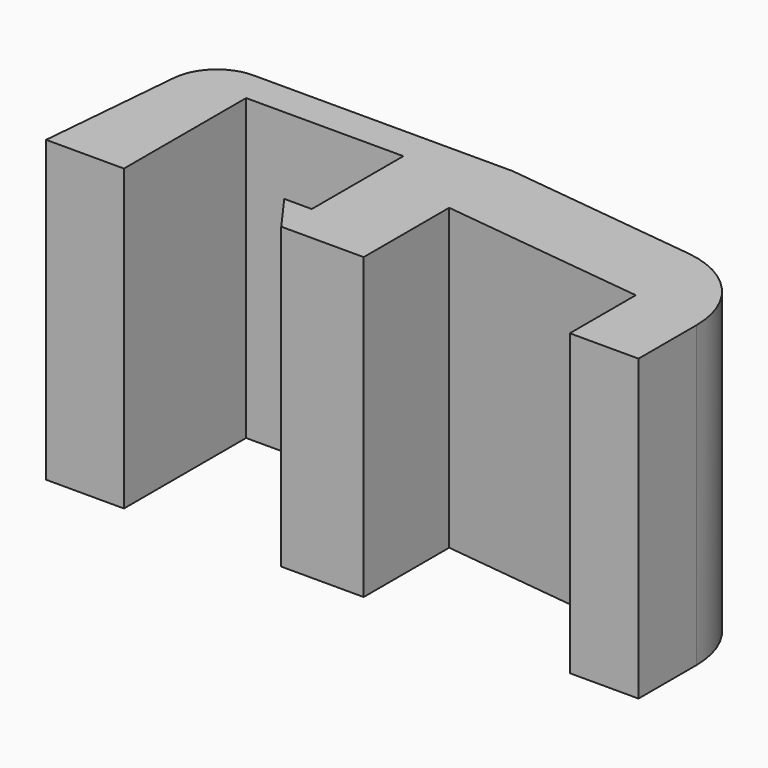
from build123d import *

# Parameters (mm, degrees)
F1_DEPTH = 19.6
F2_R     = 6
F3_R     = 3


with BuildPart() as f1:
    # F0 (on Top) → F1 (new body)
    with BuildSketch(Plane.XY):
        Polygon((-28.130636, 0), (-23.030636, 0), (-23.030636, 10), (-12.730636, 10), (-12.730636, 2.5), (-14.530636, 2.5), (-12.730636, 0), (-7.330636, 0), (-7.330636, 7), (6.169364, 5.4), (6.169364, 0), (10.669364, 0), (10.669364, 10.066667), (-7.330636, 12.2), (-27.063274, 12.2), align=None)
    extrude(amount=F1_DEPTH)

    # F2
    f2_edges = [f1.edges().sort_by_distance(p)[0] for p in [
        (10.669364, 10.066667, 9.8),
    ]]
    fillet(f2_edges, radius=F2_R)

    # F3
    f3_edges = [f1.edges().sort_by_distance(p)[0] for p in [
        (-27.063274, 12.2, 9.8),
    ]]
    fillet(f3_edges, radius=F3_R)


solid = f1.part
